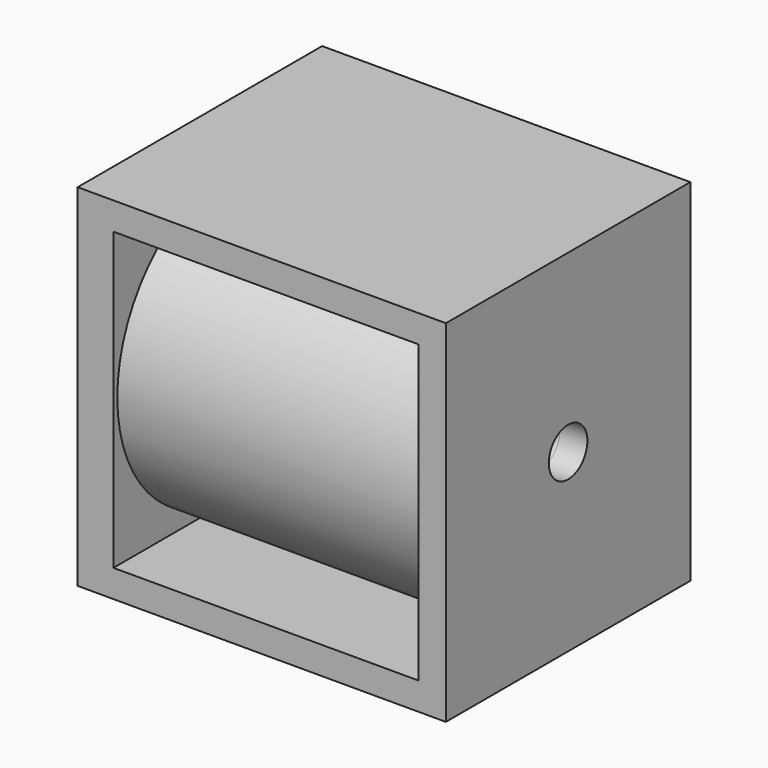
from build123d import *

# Parameters (mm, degrees)
F1_DEPTH = 11.1
F3_DEPTH = 22.15
F4_R     = 1.75
F5_DEPTH = 26.75
F6_R     = 3.8
F6_R_2   = 1.75
F7_DEPTH = 15


with BuildPart() as f1:
    # F0 (on Front) → F1 (new body, symmetric)
    with BuildSketch(Plane.XZ):
        Polygon((-49.128158, 12.75), (-49.128158, 0), (-46.528158, 0), (-46.528158, 10.75), (-24.378158, 10.75), (-24.378158, 0), (-22.378158, 0), (-22.378158, 12.75), align=None)
        Polygon((-46.528158, 0), (-49.128158, 0), (-49.128158, -12.75), (-22.378158, -12.75), (-22.378158, 0), (-24.378158, 0), (-24.378158, -10.75), (-46.528158, -10.75), align=None)
    extrude(amount=F1_DEPTH, both=True)


with BuildPart() as f3:
    # F2 (on face) → F3 (new body, through all)
    with BuildSketch(Plane.YZ.offset(-46.528158)):
        with BuildLine():
            ThreePointArc((0, -10.75), (7.601398, -7.601398), (10.75, 0))
            ThreePointArc((10.75, 0), (7.601398, 7.601398), (0, 10.75))
            ThreePointArc((0, 10.75), (-10.75, 0), (0, -10.75))
        make_face()
    extrude(amount=F3_DEPTH)


with BuildPart() as f5_tool:
    # F4 (on face) → F5 (new body, through all)
    with BuildSketch(Plane.YZ.offset(-22.378158)):
        Circle(F4_R)
    extrude(amount=-F5_DEPTH)


with BuildPart() as f1_1:
    add(f1.part)

    # F5: cut by f5_tool
    add(f5_tool.part, mode=Mode.SUBTRACT)


with BuildPart() as f3_1:
    add(f3.part)

    # F5: cut by f5_tool
    add(f5_tool.part, mode=Mode.SUBTRACT)


with BuildPart() as f7_tool:
    # F6 (on face) → F7 (new body)
    with BuildSketch(Plane(origin=(-49.128158, 0, 0), x_dir=(0, -1, 0), z_dir=(-1, 0, 0))):
        Circle(F6_R)
        Circle(F6_R)
        Circle(F6_R_2, mode=Mode.SUBTRACT)
    extrude(amount=-F7_DEPTH)


with BuildPart() as f1_2:
    add(f1_1.part)

    # F7: cut by f7_tool
    add(f7_tool.part, mode=Mode.SUBTRACT)


with BuildPart() as f3_2:
    add(f3_1.part)

    # F7: cut by f7_tool
    add(f7_tool.part, mode=Mode.SUBTRACT)


solid = Compound([f1_2.part, f3_2.part])
